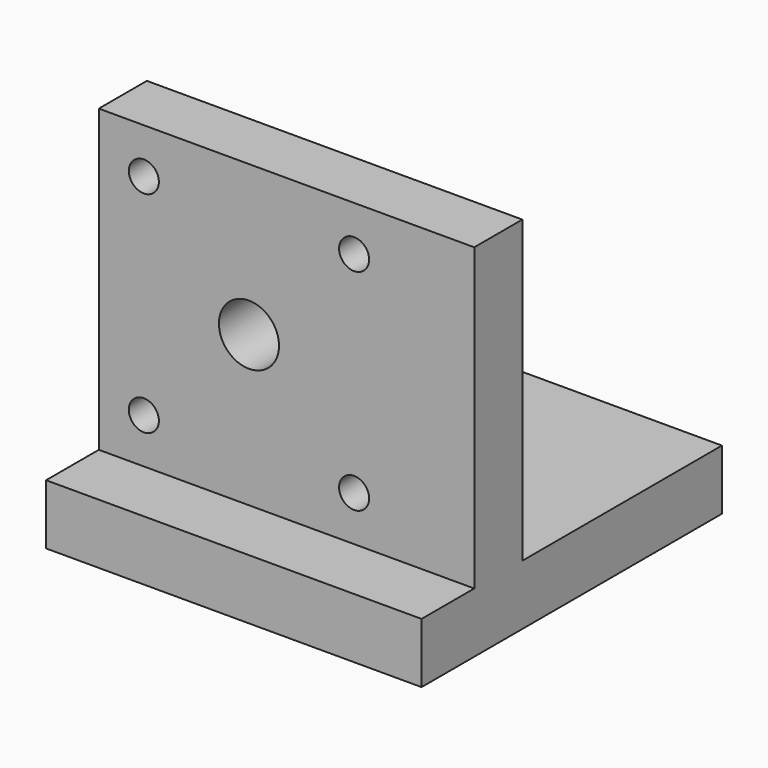
from build123d import *

# Parameters (mm, degrees)
F1_DEPTH = 50
F2_R     = 2
F2_R_2   = 4
F3_DEPTH = 8
F4_R     = 1
F5_DEPTH = 5
F6_R     = 1
F7_DEPTH = 8
F8_R     = 2.5
F8_R_2   = 1
F8_R_3   = 2.689756
F9_DEPTH = 4


with BuildPart() as f1:
    # F0 (on Right) → F1 (new body)
    with BuildSketch(Plane.YZ):
        Polygon((-8.773239, 0), (41.226761, 0), (41.226761, 8), (8, 8), (8, 48), (0, 48), (0, 8), (-8.773239, 8), align=None)
    extrude(amount=F1_DEPTH)

    # F2 (on face) → F3 (cut, through all)
    with BuildSketch(Plane.XZ):
        with Locations((6, 42)):
            Circle(F2_R)
        with Locations((6, 14)):
            Circle(F2_R)
        with Locations((20, 28)):
            Circle(F2_R_2)
        with Locations((34, 42)):
            Circle(F2_R)
        with Locations((34, 14)):
            Circle(F2_R)
    extrude(amount=-F3_DEPTH, mode=Mode.SUBTRACT)

    # F4 (on face) → F5 (cut)
    with BuildSketch(Plane(origin=(0, 0, 0), x_dir=(1, 0, 0), z_dir=(0, 0, -1))):
        with Locations((16, 5.773239)):
            Circle(F4_R)
        with Locations((34, 5.773239)):
            Circle(F4_R)
        with Locations((34, -4.226761)):
            Circle(F4_R)
        with Locations((16, -4.226761)):
            Circle(F4_R)
    extrude(amount=-F5_DEPTH, mode=Mode.SUBTRACT)

    # F6 (on face) → F7 (cut, through all)
    with BuildSketch(Plane.XY.offset(8)):
        with Locations((10, 15)):
            Circle(F6_R)
        with Locations((40, 15)):
            Circle(F6_R)
    extrude(amount=-F7_DEPTH, mode=Mode.SUBTRACT)

    # F8 (on face) → F9 (cut)
    with BuildSketch(Plane.XY.offset(8)):
        with Locations((10, 15)):
            Circle(F8_R)
        with Locations((10, 15)):
            Circle(F8_R_2, mode=Mode.SUBTRACT)
        with Locations((40, 15)):
            Circle(F8_R_3)
        with Locations((40, 15)):
            Circle(F8_R_2, mode=Mode.SUBTRACT)
    extrude(amount=-F9_DEPTH, mode=Mode.SUBTRACT)


solid = f1.part
